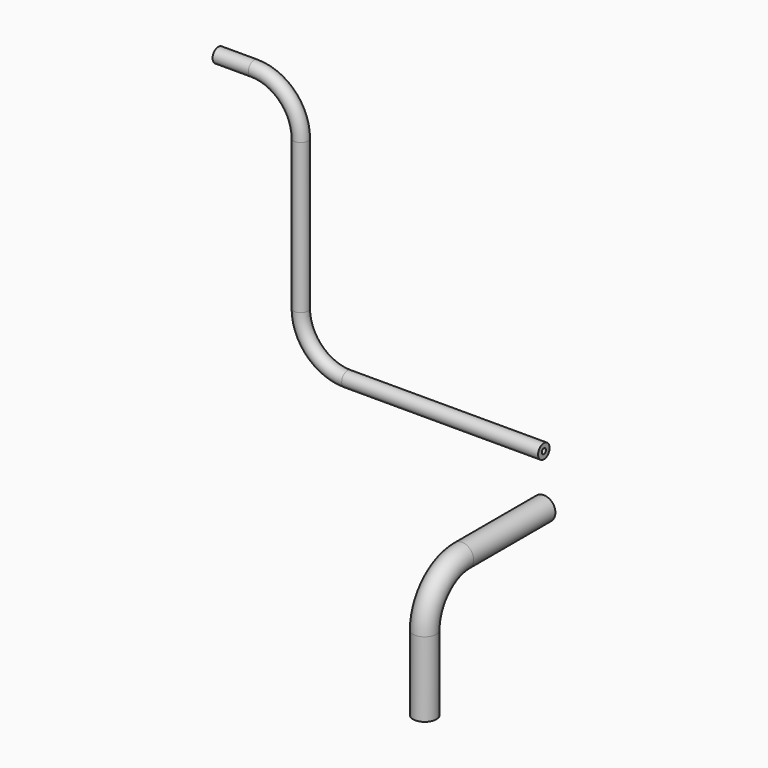
from build123d import *

# Parameters (mm, degrees)
F0_R   = 14.3
F0_R_2 = 12.5
F3_R   = 8.885882
F3_R_2 = 3.224988


with BuildPart() as f2:
    # F2: sweep along a path in F1
    with BuildLine(Plane.YZ) as f2_path:
        Line((0, 0), (-126.208271, 0))
        ThreePointArc((-126.208271, 0), (-166.937621, -16.870649), (-183.808271, -57.6))
        Line((-183.808271, -57.6), (-183.808271, -150))
    # F0 (on Front) → F2 (sweep)
    with BuildSketch(Plane.XZ):
        Circle(F0_R)
        Circle(F0_R_2, mode=Mode.SUBTRACT)
    sweep(path=f2_path.line)


with BuildPart() as f5:
    # F5: sweep along a path in F4
    with BuildLine(Plane.XZ) as f5_path:
        Line((0, 61.987769), (-242.4, 61.987769))
        ThreePointArc((-242.4, 61.987769), (-283.129351, 78.858419), (-300, 119.587769))
        Line((-300, 119.587769), (-300, 304.387769))
        ThreePointArc((-300, 304.387769), (-316.870649, 345.11712), (-357.6, 361.987769))
        Line((-357.6, 361.987769), (-401.801335, 361.987769))
    # F3 (on Right) → F5 (sweep)
    with BuildSketch(Plane.YZ):
        with Locations((0, 61.987769)):
            Circle(F3_R)
        with Locations((0, 61.987769)):
            Circle(F3_R_2, mode=Mode.SUBTRACT)
    sweep(path=f5_path.line)


solid = Compound([f2.part, f5.part])
